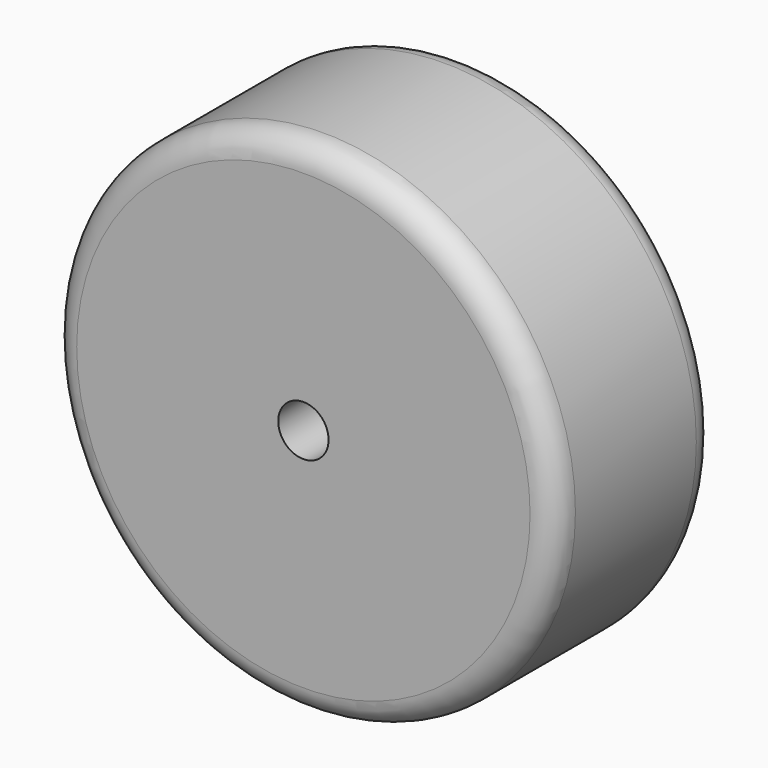
from build123d import *

# Parameters (mm, degrees)
F0_R     = 63.5
F0_R_2   = 6.35
F1_DEPTH = 50.8
F2_R     = 6.35


with BuildPart() as f1:
    # F0 (on Front) → F1 (new body)
    with BuildSketch(Plane.XZ):
        Circle(F0_R)
        Circle(F0_R_2, mode=Mode.SUBTRACT)
        Circle(F0_R)
        Circle(F0_R_2, mode=Mode.SUBTRACT)
    extrude(amount=F1_DEPTH)

    # F2
    f2_edges = [f1.edges().sort_by_distance(p)[0] for p in [
        (-63.5, -50.8, 0),
        (-63.5, 0, 0),
    ]]
    fillet(f2_edges, radius=F2_R)


solid = f1.part
